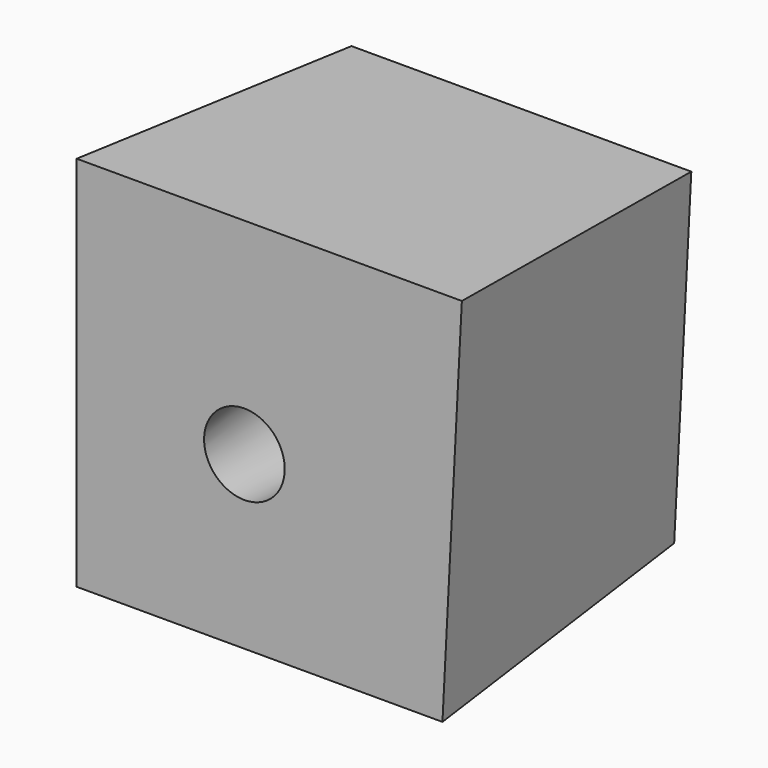
from build123d import *

# Parameters (mm, degrees)
F0_R     = 15.0558315676
F1_DEPTH = 76.2
F1_TAPER = -4


with BuildPart() as f1:
    # F0 (on Front) → F1 (new body)
    with BuildSketch(Plane.XZ):
        Polygon((30.9989675879, 56.0654439032), (-50.9760826826, 56.0654439032), (-50.9760826826, -24.1945702583), (26.865772903, -24.1945702583), align=None)
        with Locations((-15.8439166844, 11.7868222296)):
            Circle(F0_R, mode=Mode.SUBTRACT)
    extrude(amount=F1_DEPTH, taper=F1_TAPER)


solid = f1.part
